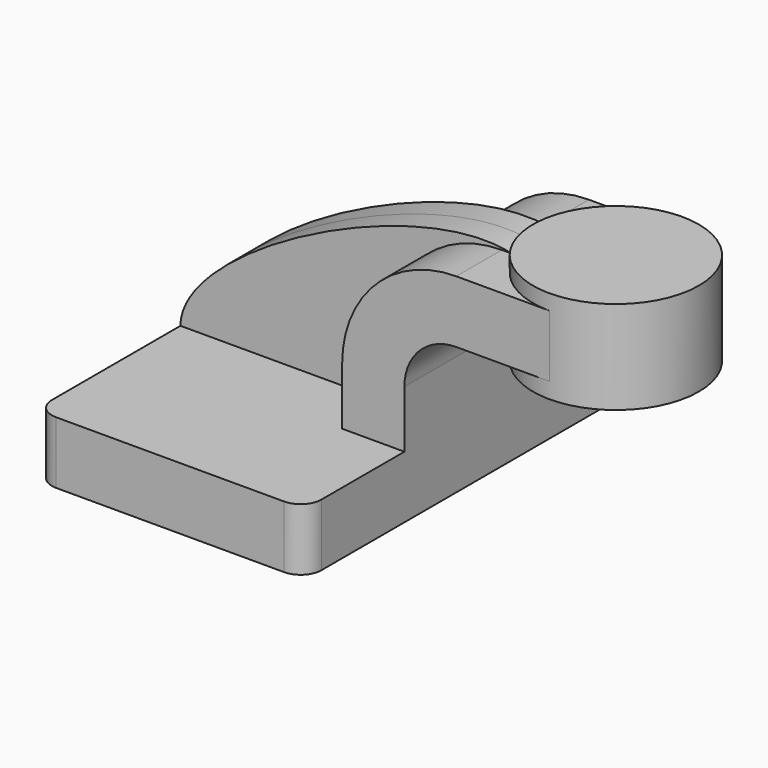
from build123d import *

# Parameters (mm, degrees)
F1_DEPTH = 63.5
F0_W     = 25.4
F0_H     = 19.05
F2_DEPTH = 25.4
F3_DEPTH = 7.9375
F4_R     = 6.35


with BuildPart() as f1:
    # F0 (on Front) → F1 (new body, symmetric)
    with BuildSketch(Plane.XZ):
        Polygon((-41.275, 9.525), (-41.275, -9.525), (41.275, -9.525), (41.275, 9.525), (22.225, 9.525), align=None)
    extrude(amount=F1_DEPTH, both=True)

    # F0 (on Front) → F2 (join, symmetric)
    with BuildSketch(Plane.XZ):
        with BuildLine():
            Line((22.225, 9.525), (41.275, 9.525))
            Line((41.275, 9.525), (41.275, 27.051))
            ThreePointArc((41.275, 27.051), (45.92468, 38.27632), (57.15, 42.926))
            Line((57.15, 42.926), (60.325, 42.926))
            Line((60.325, 42.926), (60.325, 61.976))
            Line((60.325, 61.976), (57.15, 61.976))
            ThreePointArc((57.15, 61.976), (32.454296, 51.746704), (22.225, 27.051))
            Line((22.225, 27.051), (22.225, 9.525))
        make_face()
        with Locations((73.025, 52.451)):
            Rectangle(F0_W, F0_H)
    extrude(amount=F2_DEPTH, both=True)

    # F0 (on Front) → F3 (join, symmetric)
    with BuildSketch(Plane.XZ):
        with BuildLine():
            add(Edge.make_bspline(
                [(-41.275, 9.525), (-41.072655, 32.786246), (31.344924, 69.177315), (60.325, 61.976)],
                knots=[0, 0, 0, 0, 114.340139, 114.340139, 114.340139, 114.340139], degree=3))
            Line((-41.275, 9.525), (22.225, 9.525))
            Line((22.225, 9.525), (22.225, 27.051))
            ThreePointArc((22.225, 27.051), (32.454296, 51.746704), (57.15, 61.976))
            Line((57.15, 61.976), (60.325, 61.976))
        make_face()
    extrude(amount=F3_DEPTH, both=True)

    # F4
    f4_edges = [f1.edges().sort_by_distance(p)[0] for p in [
        (41.275, -63.5, 0),
        (41.275, 63.5, 0),
        (-41.275, 63.5, 0),
        (-41.275, -63.5, 0),
    ]]
    fillet(f4_edges, radius=F4_R)

    # F0 (on Front) → F5 (revolve)
    with BuildSketch(Plane.XZ):
        Polygon((85.725, 66.675), (85.725, 61.976), (85.725, 42.926), (85.725, 38.1), (111.125, 38.1), (111.125, 66.675), align=None)
    revolve(axis=Axis((85.725, 0, 52.3875), (0, 0, 1)))


solid = f1.part
